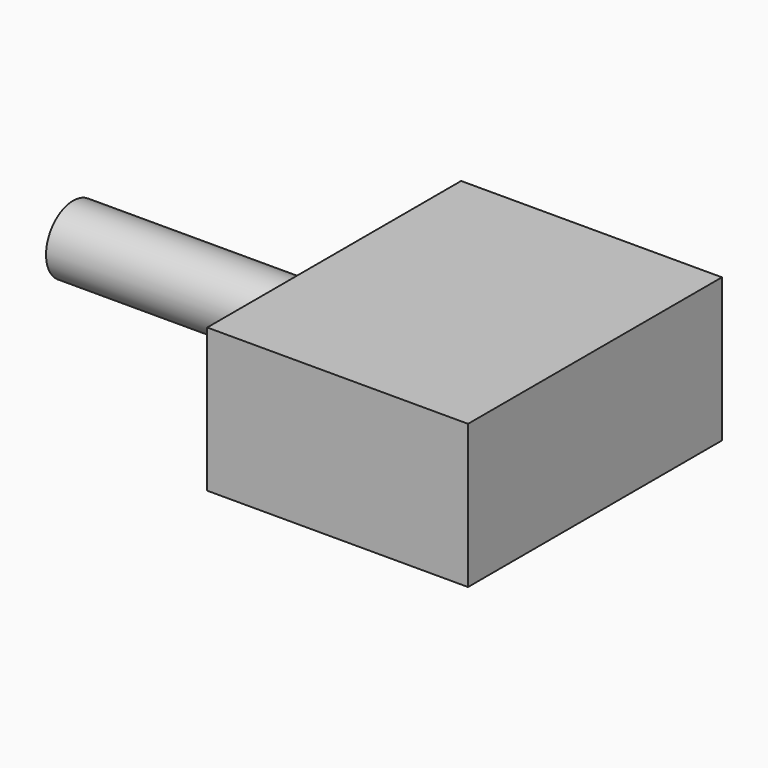
from build123d import *

# Parameters (mm, degrees)
F0_W          = 123.634026
F0_H          = 55.977793
F1_DEPTH      = 101.6
F2_R          = 13.161447
F3_DEPTH      = 203.2
F3_DEPTH_BACK = 25.4


with BuildPart() as f1:
    # F0 (on Right) → F1 (new body)
    with BuildSketch(Plane.YZ):
        with Locations((-38.673699, 24.787056)):
            Rectangle(F0_W, F0_H)
    extrude(amount=F1_DEPTH)

    # F2 (on face) → F3 (join, two sides)
    with BuildSketch(Plane.YZ.offset(101.6)) as f3_sk:
        with Locations((-38.832705, 25.00103)):
            Circle(F2_R)
    extrude(amount=-F3_DEPTH)
    extrude(f3_sk.sketch, amount=-F3_DEPTH_BACK)


solid = f1.part
